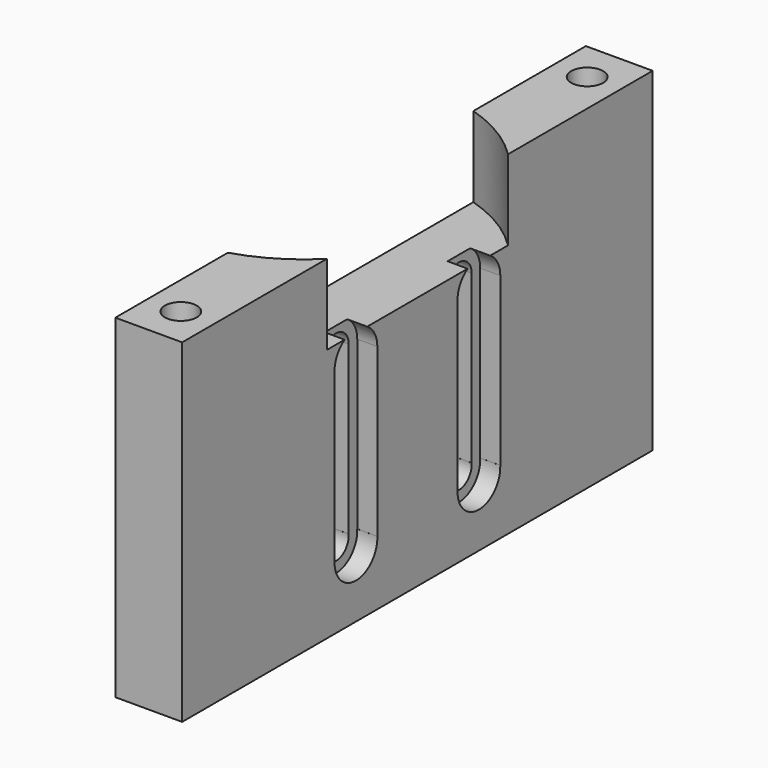
from build123d import *

# Parameters (mm, degrees)
CYLINDER014_R             = 2
CYLINDER014_DEPTH         = 1.6
CYLINDER015_R             = 2
CYLINDER015_DEPTH         = 1.6
BOX003_W                  = 12.5
BOX003_H                  = 4
BOX003_DEPTH              = 1.6
FUSION006_PLACEMENT_ANGLE = 90
CYLINDER016_R             = 2
CYLINDER016_DEPTH         = 1.6
CYLINDER017_R             = 2
CYLINDER017_DEPTH         = 1.6
BOX004_W                  = 12.5
BOX004_H                  = 4
BOX004_DEPTH              = 1.6
FUSION007_PLACEMENT_ANGLE = 90
CYLINDER007_R             = 1.195
CYLINDER007_DEPTH         = 10
CYLINDER006_R             = 1.195
CYLINDER006_DEPTH         = 10
CYLINDER005_R             = 12
CYLINDER005_DEPTH         = 17
CYLINDER001_R             = 1.2
CYLINDER001_DEPTH         = 10
CYLINDER002_R             = 1.2
CYLINDER002_DEPTH         = 10
BOX001_W                  = 12.5
BOX001_H                  = 2.4
BOX001_DEPTH              = 10
FUSION_PLACEMENT_ANGLE    = 90
CYLINDER003_R             = 1.2
CYLINDER003_DEPTH         = 10
CYLINDER004_R             = 1.2
CYLINDER004_DEPTH         = 10
BOX002_W                  = 12.5
BOX002_H                  = 2.4
BOX002_DEPTH              = 10
FUSION001_PLACEMENT_ANGLE = 90
BOX_W                     = 5
BOX_H                     = 44
BOX_DEPTH                 = 25


with BuildPart() as cylinder014:
    # Cylinder014 → Cylinder014 (new body)
    with BuildSketch(Plane.XY):
        Circle(CYLINDER014_R)
    extrude(amount=CYLINDER014_DEPTH)


with BuildPart() as cylinder015:
    # Cylinder015 → Cylinder015 (new body)
    with BuildSketch(Plane(origin=(12.6, 0, 0), x_dir=(1, 0, 0), z_dir=(0, 0, 1))):
        Circle(CYLINDER015_R)
    extrude(amount=CYLINDER015_DEPTH)


with BuildPart() as langloch002:
    # Box003 → Box003 (new body)
    with BuildSketch(Plane(origin=(0, -2, 0), x_dir=(1, 0, 0), z_dir=(0, 0, 1))):
        with Locations((6.25, 2)):
            Rectangle(BOX003_W, BOX003_H)
    extrude(amount=BOX003_DEPTH)

    # Fusion006: union Cylinder014, Cylinder015
    add(cylinder014.part)
    add(cylinder015.part)


with BuildPart() as langloch002_1:
    # Fusion006 placement: moved
    add(langloch002.part.moved(Location((7, -5.75, -7.7))).rotate(Axis((7, -5.75, -7.7), (0, 1, 0)), FUSION006_PLACEMENT_ANGLE))


with BuildPart() as cylinder016:
    # Cylinder016 → Cylinder016 (new body)
    with BuildSketch(Plane.XY):
        Circle(CYLINDER016_R)
    extrude(amount=CYLINDER016_DEPTH)


with BuildPart() as cylinder017:
    # Cylinder017 → Cylinder017 (new body)
    with BuildSketch(Plane(origin=(12.6, 0, 0), x_dir=(1, 0, 0), z_dir=(0, 0, 1))):
        Circle(CYLINDER017_R)
    extrude(amount=CYLINDER017_DEPTH)


with BuildPart() as fusion008:
    # Box004 → Box004 (new body)
    with BuildSketch(Plane(origin=(0, -2, 0), x_dir=(1, 0, 0), z_dir=(0, 0, 1))):
        with Locations((6.25, 2)):
            Rectangle(BOX004_W, BOX004_H)
    extrude(amount=BOX004_DEPTH)

    # Fusion007: union Cylinder016, Cylinder017
    add(cylinder016.part)
    add(cylinder017.part)


with BuildPart() as fusion008_1:
    # Fusion007 placement: moved
    add(fusion008.part.moved(Location((7, 5.75, -7.7))).rotate(Axis((7, 5.75, -7.7), (0, 1, 0)), FUSION007_PLACEMENT_ANGLE))

    # Fusion008: union Langloch002
    add(langloch002_1.part)


with BuildPart() as cylinder007:
    # Cylinder007 → Cylinder007 (new body)
    with BuildSketch(Plane(origin=(6, -19, -8), x_dir=(1, 0, 0), z_dir=(0, 0, 1))):
        Circle(CYLINDER007_R)
    extrude(amount=CYLINDER007_DEPTH)


with BuildPart() as fusion003:
    # Cylinder006 → Cylinder006 (new body)
    with BuildSketch(Plane(origin=(6, 19, -8), x_dir=(1, 0, 0), z_dir=(0, 0, 1))):
        Circle(CYLINDER006_R)
    extrude(amount=CYLINDER006_DEPTH)

    # Fusion003: union Cylinder007
    add(cylinder007.part)


with BuildPart() as cylinder005:
    # Cylinder005 → Cylinder005 (new body)
    with BuildSketch(Plane.XY.offset(-6)):
        Circle(CYLINDER005_R)
    extrude(amount=CYLINDER005_DEPTH)


with BuildPart() as cylinder001:
    # Cylinder001 → Cylinder001 (new body)
    with BuildSketch(Plane.XY):
        Circle(CYLINDER001_R)
    extrude(amount=CYLINDER001_DEPTH)


with BuildPart() as cylinder002:
    # Cylinder002 → Cylinder002 (new body)
    with BuildSketch(Plane(origin=(12.6, 0, 0), x_dir=(1, 0, 0), z_dir=(0, 0, 1))):
        Circle(CYLINDER002_R)
    extrude(amount=CYLINDER002_DEPTH)


with BuildPart() as langloch:
    # Box001 → Box001 (new body)
    with BuildSketch(Plane(origin=(0, -1.2, 0), x_dir=(1, 0, 0), z_dir=(0, 0, 1))):
        with Locations((6.25, 1.2)):
            Rectangle(BOX001_W, BOX001_H)
    extrude(amount=BOX001_DEPTH)

    # Fusion: union Cylinder001, Cylinder002
    add(cylinder001.part)
    add(cylinder002.part)


with BuildPart() as langloch_1:
    # Fusion placement: moved
    add(langloch.part.moved(Location((0, 5.75, -7.7))).rotate(Axis((0, 5.75, -7.7), (0, 1, 0)), FUSION_PLACEMENT_ANGLE))


with BuildPart() as cylinder003:
    # Cylinder003 → Cylinder003 (new body)
    with BuildSketch(Plane.XY):
        Circle(CYLINDER003_R)
    extrude(amount=CYLINDER003_DEPTH)


with BuildPart() as cylinder004:
    # Cylinder004 → Cylinder004 (new body)
    with BuildSketch(Plane(origin=(12.6, 0, 0), x_dir=(1, 0, 0), z_dir=(0, 0, 1))):
        Circle(CYLINDER004_R)
    extrude(amount=CYLINDER004_DEPTH)


with BuildPart() as fusion002:
    # Box002 → Box002 (new body)
    with BuildSketch(Plane(origin=(0, -1.2, 0), x_dir=(1, 0, 0), z_dir=(0, 0, 1))):
        with Locations((6.25, 1.2)):
            Rectangle(BOX002_W, BOX002_H)
    extrude(amount=BOX002_DEPTH)

    # Fusion001: union Cylinder003, Cylinder004
    add(cylinder003.part)
    add(cylinder004.part)


with BuildPart() as fusion002_1:
    # Fusion001 placement: moved
    add(fusion002.part.moved(Location((0, -5.75, -7.7))).rotate(Axis((0, -5.75, -7.7), (0, 1, 0)), FUSION001_PLACEMENT_ANGLE))

    # Fusion002: union Langloch
    add(langloch_1.part)


with BuildPart() as obj1:
    # Box → Box (new body)
    with BuildSketch(Plane(origin=(3.5, -22, -25), x_dir=(1, 0, 0), z_dir=(0, 0, 1))):
        with Locations((2.5, 22)):
            Rectangle(BOX_W, BOX_H)
    extrude(amount=BOX_DEPTH)

    # Cut001: cut Fusion002
    add(fusion002_1.part, mode=Mode.SUBTRACT)

    # Cut002: cut Cylinder005
    add(cylinder005.part, mode=Mode.SUBTRACT)

    # Cut003: cut Fusion003
    add(fusion003.part, mode=Mode.SUBTRACT)

    # Cut006: cut Fusion008
    add(fusion008_1.part, mode=Mode.SUBTRACT)


solid = obj1.part
